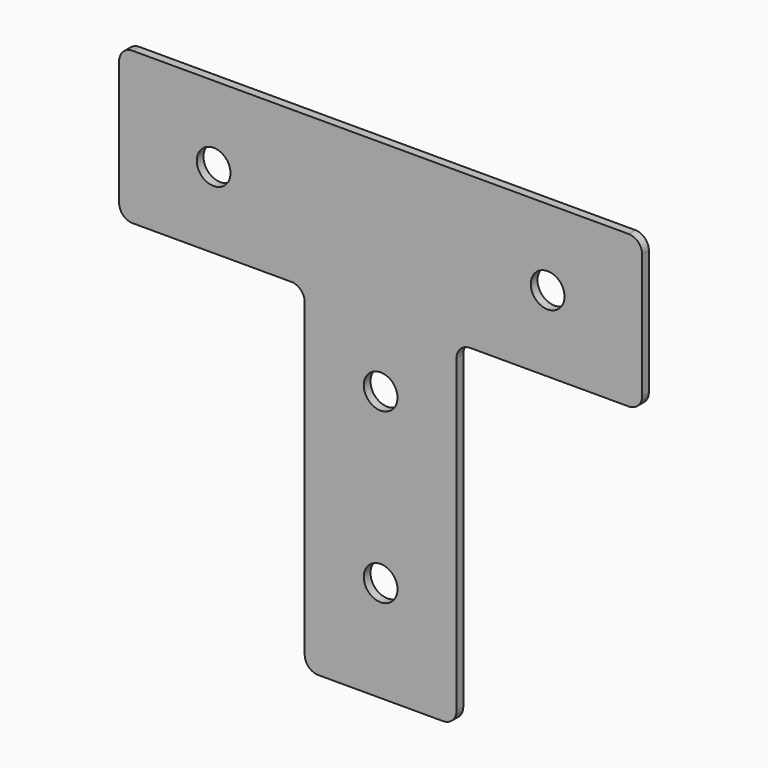
from build123d import *

# Parameters (mm, degrees)
F1_DEPTH = 2.5
F2_R     = 4
F3_R     = 5
F4_DEPTH = 2.501
F5_R     = 5
F6_DEPTH = 2.501


with BuildPart() as f1:
    # F0 (on Front) → F1 (new body)
    with BuildSketch(Plane.XZ):
        Polygon((77.5, 22.5), (-77.5, 22.5), (-77.5, -22.5), (-22.5, -22.5), (-22.5, -122.5), (22.5, -122.5), (22.5, -22.5), (77.5, -22.5), align=None)
    extrude(amount=F1_DEPTH)

    # F2
    f2_edges = [f1.edges().sort_by_distance(p)[0] for p in [
        (-77.5, -1.25, 22.5),
        (-77.5, -1.25, -22.5),
        (77.5, -1.25, 22.5),
        (77.5, -1.25, -22.5),
        (22.5, -1.25, -122.5),
        (-22.5, -1.25, -122.5),
        (22.5, -1.25, -22.5),
        (-22.5, -1.25, -22.5),
    ]]
    fillet(f2_edges, radius=F2_R)

    # F3 (on face) → F4 (cut, through all)
    with BuildSketch(Plane.XZ.offset(2.5)):
        with Locations((49.5, 0)):
            Circle(F3_R)
        with Locations((-49.5, 0)):
            Circle(F3_R)
        with Locations((0, -92.5)):
            Circle(F3_R)
    extrude(amount=-F4_DEPTH, mode=Mode.SUBTRACT)

    # F5 (on face) → F6 (cut, through all)
    with BuildSketch(Plane.XZ.offset(2.5)):
        with Locations((0, -42.5)):
            Circle(F5_R)
    extrude(amount=-F6_DEPTH, mode=Mode.SUBTRACT)


solid = f1.part
